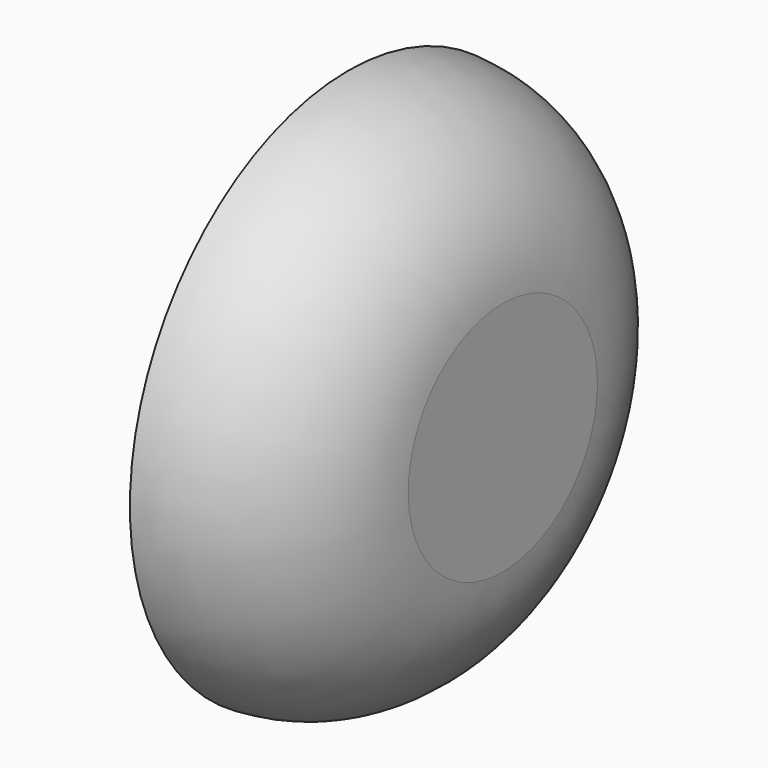
from build123d import *


with BuildPart() as f1:
    # F0 (on Front) → F1 (revolve)
    with BuildSketch(Plane.XZ):
        with BuildLine():
            Line((0, 0), (0, 13))
            ThreePointArc((0, 13), (-5.156759, 24.843241), (-17, 30))
            Line((-17, 30), (-17, 5.829378))
            Line((-17, 5.829378), (-14.4753, 5.829378))
            Line((-14.4753, 5.829378), (-14.4753, 4.671762))
            Line((-14.4753, 4.671762), (-13.130656, 4.671762))
            Line((-13.130656, 4.671762), (-13.130656, 2.97178))
            Line((-13.130656, 2.97178), (-8.5, 2.97178))
            Line((-8.5, 2.97178), (-8.5, 0))
            Line((-8.5, 0), (0, 0))
        make_face()
    revolve(axis=Axis((-4.25, 0, 0), (1, 0, 0)))


solid = f1.part
